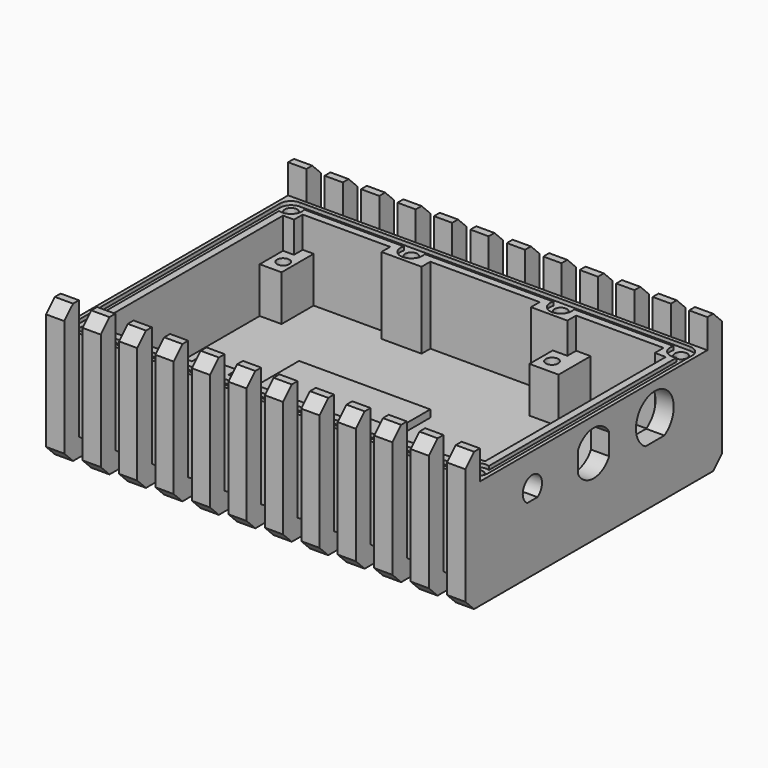
from build123d import *

# Parameters (mm, degrees)
SKETCH_W        = 115
SKETCH_H        = 78
PAD_DEPTH       = 27
SKETCH001_W     = 105
SKETCH001_H     = 68
POCKET_DEPTH    = 21
POCKET005_DEPTH = 5
SKETCH015_W     = 6
SKETCH015_H     = 11
SKETCH015_W_2   = 8
PAD006_DEPTH    = 15.5
SKETCH012_W     = 3
SKETCH012_H     = 3
SKETCH012_W_2   = 10
SKETCH012_W_3   = 11
PAD007_DEPTH    = 24
SKETCH016_R     = 1.7
HOLE_DEPTH      = 11.5
HOLE_TIPS_R     = 1.7
SKETCH017_R     = 1.7
HOLE001_DEPTH   = 20
HOLE001_TIPS_R  = 1.7
SKETCH018_W     = 36
SKETCH018_H     = 36
PAD008_DEPTH    = 2
SKETCH025_R     = 1.7
POCKET010_DEPTH = 1
SKETCH028_W     = 88
SKETCH028_H     = 2
POCKET011_DEPTH = 115.001
SKETCH029_W     = 5
SKETCH029_H     = 78
PAD012_DEPTH    = 5
SKETCH030_W     = 5
SKETCH030_H     = 38
PAD013_DEPTH    = 5
SKETCH031_W     = 5
SKETCH031_H     = 38
PAD014_DEPTH    = 5
CHAMFER_SIZE    = 3


with BuildPart() as part:
    # Sketch → Pad (new body)
    with BuildSketch(Plane.XY):
        with Locations((52.5, 32)):
            Rectangle(SKETCH_W, SKETCH_H)
    extrude(amount=PAD_DEPTH)

    # Sketch001 (on Face6 of Pad) → Pocket (cut)
    with BuildSketch(Plane.XY.offset(27)):
        with Locations((52.5, 32)):
            Rectangle(SKETCH001_W, SKETCH001_H)
    extrude(amount=-POCKET_DEPTH, mode=Mode.SUBTRACT)

    # Sketch014 → Pocket005 (cut)
    with BuildSketch(Plane.YZ.offset(110)):
        with BuildLine():
            ThreePointArc((56.25908, 12.405), (53, 24.475), (49.74092, 12.405))
            Line((49.74092, 12.405), (56.25908, 12.405))
        make_face()
        with BuildLine():
            ThreePointArc((12.746425, 15.2), (11, 21.3), (9.253575, 15.2))
            Line((12.746425, 15.2), (9.253575, 15.2))
        make_face()
        with BuildLine():
            ThreePointArc((26.65, 15.069556), (32, 11.9), (37.35, 15.069556))
            Line((37.35, 20.930444), (37.35, 15.069556))
            ThreePointArc((37.35, 20.930444), (32, 24.1), (26.65, 20.930444))
            Line((26.65, 20.930444), (26.65, 15.069556))
        make_face()
    extrude(amount=-POCKET005_DEPTH, mode=Mode.SUBTRACT)

    # Sketch015 → Pad006 (join)
    with BuildSketch(Plane.XY.offset(3)):
        with Locations((3, 60.5)):
            Rectangle(SKETCH015_W, SKETCH015_H)
        with Locations((78, 60.5)):
            Rectangle(SKETCH015_W_2, SKETCH015_H)
    extrude(amount=PAD006_DEPTH)

    # Sketch012 → Pad007 (join)
    with BuildSketch(Plane.XY.offset(3)):
        with Locations((1.5, 64.5)):
            Rectangle(SKETCH012_W, SKETCH012_H)
        with Locations((103.5, 64.5)):
            Rectangle(SKETCH012_W, SKETCH012_H)
        with Locations((1.5, -0.5)):
            Rectangle(SKETCH012_W, SKETCH012_H)
        with Locations((73, 64.5)):
            Rectangle(SKETCH012_W_2, SKETCH012_H)
        with Locations((32, -0.5)):
            Rectangle(SKETCH012_W_2, SKETCH012_H)
        with Locations((73, -0.5)):
            Rectangle(SKETCH012_W_2, SKETCH012_H)
        with Locations((32.5, 64.5)):
            Rectangle(SKETCH012_W_3, SKETCH012_H)
        with Locations((103.5, -0.5)):
            Rectangle(SKETCH012_W, SKETCH012_H)
    extrude(amount=PAD007_DEPTH)

    # Sketch016 → Hole (cut)
    with BuildSketch(Plane.XY.offset(18.5)):
        with Locations((3.25, 59)):
            Circle(SKETCH016_R)
        with Locations((77, 59)):
            Circle(SKETCH016_R)
    extrude(amount=-HOLE_DEPTH, mode=Mode.SUBTRACT)

    # Hole tips → Hole tip 1 section 0
    with BuildSketch(Plane.XY.offset(7), mode=Mode.PRIVATE) as hole_tip_1_s0:
        with Locations((3.25, 59)):
            Circle(HOLE_TIPS_R)
    loft([hole_tip_1_s0.sketch, Vertex(3.25, 59, 5.978537)], mode=Mode.SUBTRACT)

    # Hole tips → Hole tip 2 section 0
    with BuildSketch(Plane.XY.offset(7), mode=Mode.PRIVATE) as hole_tip_2_s0:
        with Locations((77, 59)):
            Circle(HOLE_TIPS_R)
    loft([hole_tip_2_s0.sketch, Vertex(77, 59, 5.978537)], mode=Mode.SUBTRACT)

    # Sketch017 (on Face2 of Hole) → Hole001 (cut)
    with BuildSketch(Plane.XY.offset(27)):
        with Locations((-1, 67)):
            Circle(SKETCH017_R)
        with Locations((-1, -3)):
            Circle(SKETCH017_R)
        with Locations((73, 67)):
            Circle(SKETCH017_R)
        with Locations((73, -3)):
            Circle(SKETCH017_R)
        with Locations((32, -3)):
            Circle(SKETCH017_R)
        with Locations((32, 67)):
            Circle(SKETCH017_R)
        with Locations((106, 67)):
            Circle(SKETCH017_R)
        with Locations((106, -3)):
            Circle(SKETCH017_R)
    extrude(amount=-HOLE001_DEPTH, mode=Mode.SUBTRACT)

    # Hole001 tips → Hole001 tip 1 section 0
    with BuildSketch(Plane.XY.offset(7), mode=Mode.PRIVATE) as hole001_tip_1_s0:
        with Locations((-1, 67)):
            Circle(HOLE001_TIPS_R)
    loft([hole001_tip_1_s0.sketch, Vertex(-1, 67, 5.978537)], mode=Mode.SUBTRACT)

    # Hole001 tips → Hole001 tip 2 section 0
    with BuildSketch(Plane.XY.offset(7), mode=Mode.PRIVATE) as hole001_tip_2_s0:
        with Locations((-1, -3)):
            Circle(HOLE001_TIPS_R)
    loft([hole001_tip_2_s0.sketch, Vertex(-1, -3, 5.978537)], mode=Mode.SUBTRACT)

    # Hole001 tips → Hole001 tip 3 section 0
    with BuildSketch(Plane.XY.offset(7), mode=Mode.PRIVATE) as hole001_tip_3_s0:
        with Locations((73, 67)):
            Circle(HOLE001_TIPS_R)
    loft([hole001_tip_3_s0.sketch, Vertex(73, 67, 5.978537)], mode=Mode.SUBTRACT)

    # Hole001 tips → Hole001 tip 4 section 0
    with BuildSketch(Plane.XY.offset(7), mode=Mode.PRIVATE) as hole001_tip_4_s0:
        with Locations((73, -3)):
            Circle(HOLE001_TIPS_R)
    loft([hole001_tip_4_s0.sketch, Vertex(73, -3, 5.978537)], mode=Mode.SUBTRACT)

    # Hole001 tips → Hole001 tip 5 section 0
    with BuildSketch(Plane.XY.offset(7), mode=Mode.PRIVATE) as hole001_tip_5_s0:
        with Locations((32, -3)):
            Circle(HOLE001_TIPS_R)
    loft([hole001_tip_5_s0.sketch, Vertex(32, -3, 5.978537)], mode=Mode.SUBTRACT)

    # Hole001 tips → Hole001 tip 6 section 0
    with BuildSketch(Plane.XY.offset(7), mode=Mode.PRIVATE) as hole001_tip_6_s0:
        with Locations((32, 67)):
            Circle(HOLE001_TIPS_R)
    loft([hole001_tip_6_s0.sketch, Vertex(32, 67, 5.978537)], mode=Mode.SUBTRACT)

    # Hole001 tips → Hole001 tip 7 section 0
    with BuildSketch(Plane.XY.offset(7), mode=Mode.PRIVATE) as hole001_tip_7_s0:
        with Locations((106, 67)):
            Circle(HOLE001_TIPS_R)
    loft([hole001_tip_7_s0.sketch, Vertex(106, 67, 5.978537)], mode=Mode.SUBTRACT)

    # Hole001 tips → Hole001 tip 8 section 0
    with BuildSketch(Plane.XY.offset(7), mode=Mode.PRIVATE) as hole001_tip_8_s0:
        with Locations((106, -3)):
            Circle(HOLE001_TIPS_R)
    loft([hole001_tip_8_s0.sketch, Vertex(106, -3, 5.978537)], mode=Mode.SUBTRACT)

    # Sketch018 → Pad008 (join)
    with BuildSketch(Plane.XY.offset(6)):
        with Locations((40, 23)):
            Rectangle(SKETCH018_W, SKETCH018_H)
    extrude(amount=PAD008_DEPTH)

    # Sketch025 → Pocket010 (cut)
    with BuildSketch(Plane.XY.offset(27)):
        with BuildLine():
            ThreePointArc((-1, 70), (-3.12132, 69.12132), (-4, 67))
            Line((-4, -3), (-4, 67))
            ThreePointArc((-4, -3), (-3.12132, -5.12132), (-1, -6))
            Line((-1, -6), (106, -6))
            ThreePointArc((106, -6), (108.12132, -5.12132), (109, -3))
            Line((109, 66.999984), (109, -3))
            ThreePointArc((109, 66.999984), (108.121326, 69.121315), (106, 70))
            Line((-1, 70), (106, 70))
        make_face()
        with Locations((32, 67)):
            Circle(SKETCH025_R, mode=Mode.SUBTRACT)
        with Locations((32, -3)):
            Circle(SKETCH025_R, mode=Mode.SUBTRACT)
        with Locations((106, -3)):
            Circle(SKETCH025_R, mode=Mode.SUBTRACT)
        with Locations((106, 67)):
            Circle(SKETCH025_R, mode=Mode.SUBTRACT)
        with BuildLine():
            Line((-2, 64.171573), (-2, -0.171573))
            ThreePointArc((1.828427, -4), (1.12132, -0.87868), (-2, -0.171573))
            Line((29.171573, -4), (1.828427, -4))
            ThreePointArc((34.828427, -4), (32, 0), (29.171573, -4))
            Line((70.171573, -4), (34.828427, -4))
            ThreePointArc((75.828427, -4), (73, 0), (70.171573, -4))
            Line((75.828427, -4), (103.171573, -4))
            ThreePointArc((107, -0.171573), (103.87868, -0.87868), (103.171573, -4))
            Line((107, 64.171573), (107, -0.171573))
            ThreePointArc((103.171573, 68), (103.87868, 64.87868), (107, 64.171573))
            Line((75.828427, 68), (103.171573, 68))
            ThreePointArc((70.171573, 68), (73, 64), (75.828427, 68))
            Line((34.828427, 68), (70.171573, 68))
            ThreePointArc((29.171573, 68), (32, 64), (34.828427, 68))
            Line((1.828427, 68), (29.171573, 68))
            ThreePointArc((-2, 64.171573), (1.12132, 64.87868), (1.828427, 68))
        make_face(mode=Mode.SUBTRACT)
    extrude(amount=-POCKET010_DEPTH, mode=Mode.SUBTRACT)

    # Sketch028 (on Face87 of Pocket010) → Pocket011 (cut, through all)
    with BuildSketch(Plane.YZ.offset(110)):
        with Locations((27, 1)):
            Rectangle(SKETCH028_W, SKETCH028_H)
    extrude(amount=-POCKET011_DEPTH, mode=Mode.SUBTRACT)

    # Sketch029 (on Face98 of Pocket011) → Pad012 (join)
    with BuildSketch(Plane(origin=(0, 0, 2), x_dir=(1, 0, 0), z_dir=(0, 0, -1))):
        with Locations((-2.5, -32)):
            Rectangle(SKETCH029_W, SKETCH029_H)
        with Locations((7.5, -32)):
            Rectangle(SKETCH029_W, SKETCH029_H)
        with Locations((17.5, -32)):
            Rectangle(SKETCH029_W, SKETCH029_H)
        with Locations((27.5, -32)):
            Rectangle(SKETCH029_W, SKETCH029_H)
        with Locations((37.5, -32)):
            Rectangle(SKETCH029_W, SKETCH029_H)
        with Locations((47.5, -32)):
            Rectangle(SKETCH029_W, SKETCH029_H)
        with Locations((57.5, -32)):
            Rectangle(SKETCH029_W, SKETCH029_H)
        with Locations((67.5, -32)):
            Rectangle(SKETCH029_W, SKETCH029_H)
        with Locations((77.5, -32)):
            Rectangle(SKETCH029_W, SKETCH029_H)
        with Locations((87.5, -32)):
            Rectangle(SKETCH029_W, SKETCH029_H)
        with Locations((97.5, -32)):
            Rectangle(SKETCH029_W, SKETCH029_H)
        with Locations((107.5, -32)):
            Rectangle(SKETCH029_W, SKETCH029_H)
    extrude(amount=PAD012_DEPTH)

    # Sketch030 (on Face143 of Pad012) → Pad013 (join)
    with BuildSketch(Plane(origin=(0, 71, 0), x_dir=(-1, 0, 0), z_dir=(0, 1, 0))):
        with Locations((2.5, 16)):
            Rectangle(SKETCH030_W, SKETCH030_H)
        with Locations((-107.5, 16)):
            Rectangle(SKETCH030_W, SKETCH030_H)
        with Locations((-97.5, 16)):
            Rectangle(SKETCH030_W, SKETCH030_H)
        with Locations((-87.5, 16)):
            Rectangle(SKETCH030_W, SKETCH030_H)
        with Locations((-77.5, 16)):
            Rectangle(SKETCH030_W, SKETCH030_H)
        with Locations((-67.5, 16)):
            Rectangle(SKETCH030_W, SKETCH030_H)
        with Locations((-57.5, 16)):
            Rectangle(SKETCH030_W, SKETCH030_H)
        with Locations((-47.5, 16)):
            Rectangle(SKETCH030_W, SKETCH030_H)
        with Locations((-37.5, 16)):
            Rectangle(SKETCH030_W, SKETCH030_H)
        with Locations((-27.5, 16)):
            Rectangle(SKETCH030_W, SKETCH030_H)
        with Locations((-17.5, 16)):
            Rectangle(SKETCH030_W, SKETCH030_H)
        with Locations((-7.5, 16)):
            Rectangle(SKETCH030_W, SKETCH030_H)
    extrude(amount=PAD013_DEPTH)

    # Sketch031 (on Face97 of Pad013) → Pad014 (join)
    with BuildSketch(Plane.XZ.offset(7)):
        with Locations((-2.5, 16)):
            Rectangle(SKETCH031_W, SKETCH031_H)
        with Locations((7.5, 16)):
            Rectangle(SKETCH031_W, SKETCH031_H)
        with Locations((17.5, 16)):
            Rectangle(SKETCH031_W, SKETCH031_H)
        with Locations((27.5, 16)):
            Rectangle(SKETCH031_W, SKETCH031_H)
        with Locations((37.5, 16)):
            Rectangle(SKETCH031_W, SKETCH031_H)
        with Locations((47.5, 16)):
            Rectangle(SKETCH031_W, SKETCH031_H)
        with Locations((57.5, 16)):
            Rectangle(SKETCH031_W, SKETCH031_H)
        with Locations((67.5, 16)):
            Rectangle(SKETCH031_W, SKETCH031_H)
        with Locations((77.5, 16)):
            Rectangle(SKETCH031_W, SKETCH031_H)
        with Locations((87.5, 16)):
            Rectangle(SKETCH031_W, SKETCH031_H)
        with Locations((97.5, 16)):
            Rectangle(SKETCH031_W, SKETCH031_H)
        with Locations((107.5, 16)):
            Rectangle(SKETCH031_W, SKETCH031_H)
    extrude(amount=PAD014_DEPTH)

    # Chamfer
    chamfer_edges = [part.edges().sort_by_distance(p)[0] for p in [
        (-2.5, 76, 35),
        (7.5, 76, 35),
        (-2.5, 76, -3),
        (7.5, 76, -3),
        (17.5, 76, -3),
        (27.5, 76, -3),
        (37.5, 76, -3),
        (47.5, 76, -3),
        (57.5, 76, -3),
        (67.5, 76, -3),
        (77.5, 76, -3),
        (87.5, 76, -3),
        (97.5, 76, -3),
        (107.5, 76, -3),
        (107.5, 76, 35),
        (97.5, 76, 35),
        (87.5, 76, 35),
        (77.5, 76, 35),
        (67.5, 76, 35),
        (57.5, 76, 35),
        (47.5, 76, 35),
        (37.5, 76, 35),
        (17.5, 76, 35),
        (27.5, 76, 35),
        (107.5, -12, -3),
        (97.5, -12, -3),
        (87.5, -12, -3),
        (77.5, -12, -3),
        (67.5, -12, -3),
        (57.5, -12, -3),
        (47.5, -12, -3),
        (37.5, -12, -3),
        (27.5, -12, -3),
        (17.5, -12, -3),
        (7.5, -12, -3),
        (-2.5, -12, -3),
        (-2.5, -12, 35),
        (7.5, -12, 35),
        (17.5, -12, 35),
        (27.5, -12, 35),
        (37.5, -12, 35),
        (47.5, -12, 35),
        (57.5, -12, 35),
        (67.5, -12, 35),
        (77.5, -12, 35),
        (87.5, -12, 35),
        (97.5, -12, 35),
        (107.5, -12, 35),
    ]]
    chamfer(chamfer_edges, length=CHAMFER_SIZE)


with BuildPart() as part_1:
    # Body placement: moved
    add(part.part.moved(Location((0, 0, -2.5))))


solid = part_1.part
